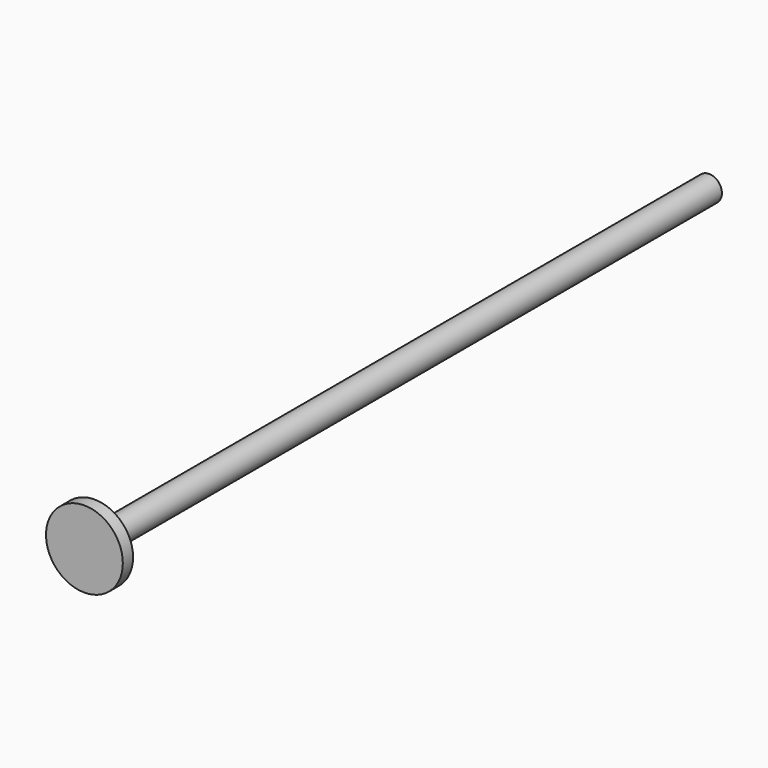
from build123d import *

# Parameters (mm, degrees)
F0_R     = 10
F1_DEPTH = 600
F2_R     = 30
F3_DEPTH = 10


with BuildPart() as f1:
    # F0 (on Front) → F1 (new body)
    with BuildSketch(Plane.XZ):
        Circle(F0_R)
    extrude(amount=F1_DEPTH)


with BuildPart() as f3:
    # F2 (on face) → F3 (new body)
    with BuildSketch(Plane.XZ.offset(600)):
        Circle(F2_R)
    extrude(amount=F3_DEPTH)


solid = Compound([f1.part, f3.part])
